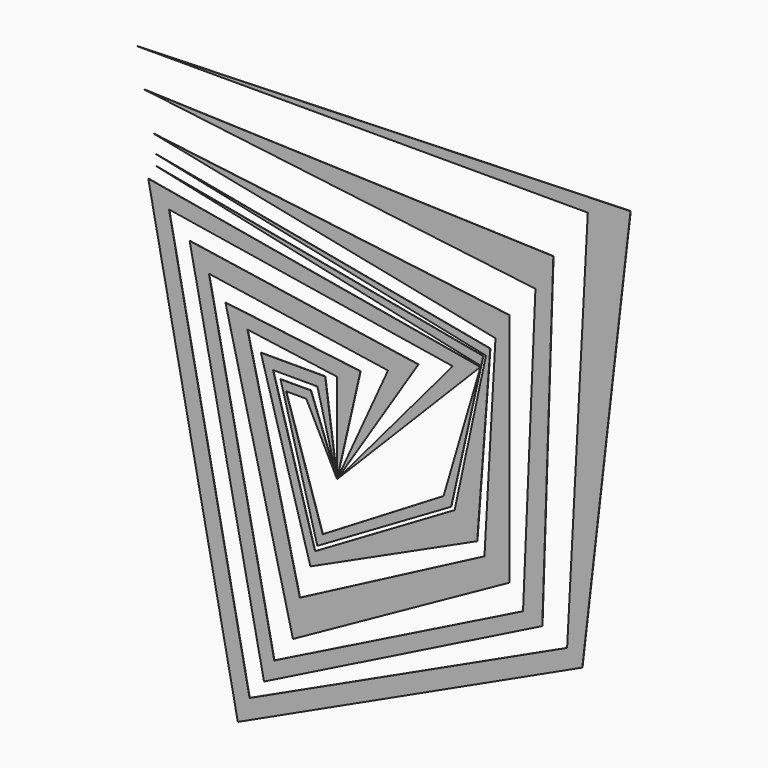
from build123d import *

# Parameters (mm, degrees)
F1_DEPTH = 0.0635
F3_DEPTH = 0.0635
F5_DEPTH = 0.0635
F7_DEPTH = 0.0635
F9_DEPTH = 0.0635


with BuildPart() as f1:
    # F0 (on Front) → F1 (new body)
    with BuildSketch(Plane.XZ):
        Polygon((23.540596, 27.884398), (0, 0), (29.145498, 29.565867), (-38.393591, 41.336168), (-20.177653, -50.023768), (49.883641, -17.515324), (59.692226, 67.398965), (-40.635552, 64.316273), (51.004622, 64.316273), (46.800945, -14.993117), (-17.792404, -44.964434), (-34.173226, 37.191691), align=None)
    extrude(amount=F1_DEPTH)


with BuildPart() as f3:
    # F2 (on Front) → F3 (new body)
    with BuildSketch(Plane.XZ):
        Polygon((43.998495, 54.227445), (-39.234325, 57.029895), (40.355306, 47.22131), (37.833102, -11.349929), (-12.771325, -36.611153), (-26.053793, 28.325355), (10.369072, 22.839984), (0, 0), (16.534466, 25.92268), (-29.986234, 32.92881), (-14.852995, -41.055918), (41.743974, -12.731862), align=None)
    extrude(amount=F3_DEPTH)


with BuildPart() as f5:
    # F4 (on Front) → F5 (new body)
    with BuildSketch(Plane.XZ):
        Polygon((35.030652, 40.775675), (-37.27261, 49.743518), (32.228198, 35.73126), (29.986233, -4.063555), (-7.566621, -23.680719), (-18.215938, 20.878267), (0, 18.356059), (0, 0), (4.764169, 20.878267), (-22.699861, 24.241209), (-8.967847, -31.527583), (35.030652, -7.146252), align=None)
    extrude(amount=F5_DEPTH)


with BuildPart() as f7:
    # F6 (on Front) → F7 (new body)
    with BuildSketch(Plane.XZ):
        Polygon((31.159258, 33.51336), (-36.875419, 46.236731), (30.290611, 31.991135), (23.914007, 2.235083), (-4.477515, -14.358898), (-13.019102, 15.311877), (-4.006716, 15.311877), (0, 0), (-2.416296, 17.609153), (-15.493091, 17.609153), (-5.420425, -17.380111), (28.508557, -1.829327), align=None)
    extrude(amount=F7_DEPTH)


with BuildPart() as f9:
    # F8 (on Front) → F9 (new body)
    with BuildSketch(Plane.XZ):
        Polygon((29.729899, 31.716872), (-36.796261, 44.093836), (29.246654, 29.816469), (21.668965, 4.028412), (-2.91659, -10.810725), (-10.38006, 12.369939), (-6.2532, 12.369939), (0, 0), (-5.324659, 14.152383), (-11.490052, 14.152383), (-4.005074, -13.234315), (23.204867, 2.606219), align=None)
    extrude(amount=F9_DEPTH)


solid = Compound([f1.part, f3.part, f5.part, f7.part, f9.part])
